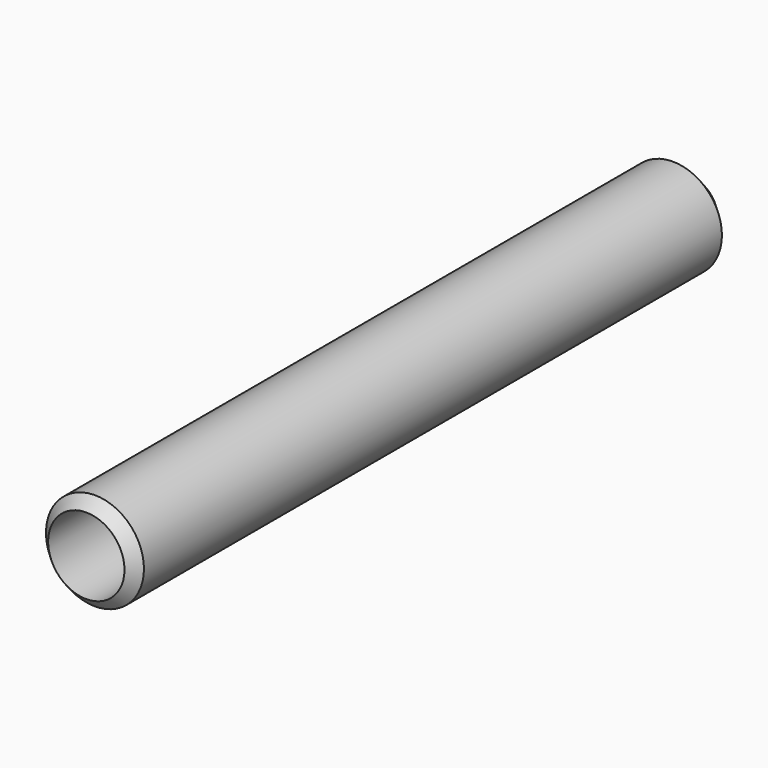
from build123d import *

# Parameters (mm, degrees)
F0_R     = 11.3287531589
F1_DEPTH = 177.1
F2_DEPTH = 52.2
F3_SIZE  = 5
F4_T     = -2.5


with BuildPart() as f1:
    # F0 (on Front) → F1 (new body)
    with BuildSketch(Plane.XZ):
        Circle(F0_R)
    extrude(amount=F1_DEPTH)

    # F2 (add): a face of the model
    f2_faces = [f1.faces().sort_by_distance(p)[0] for p in [
        (0, -177.1, 0),
    ]]
    extrude(f2_faces, amount=-F2_DEPTH)

    # F3
    f3_edges = [f1.edges().sort_by_distance(p)[0] for p in [
        (-11.328753, -177.1, 0),
        (-11.328753, 0, 0),
    ]]
    chamfer(f3_edges, length=F3_SIZE)

    # F4
    f4_openings = [f1.faces().sort_by_distance(p)[0] for p in [
        (0, -177.1, 0),
        (-8.828753, -174.6, 0),
    ]]
    offset(amount=F4_T, openings=f4_openings)


solid = f1.part
